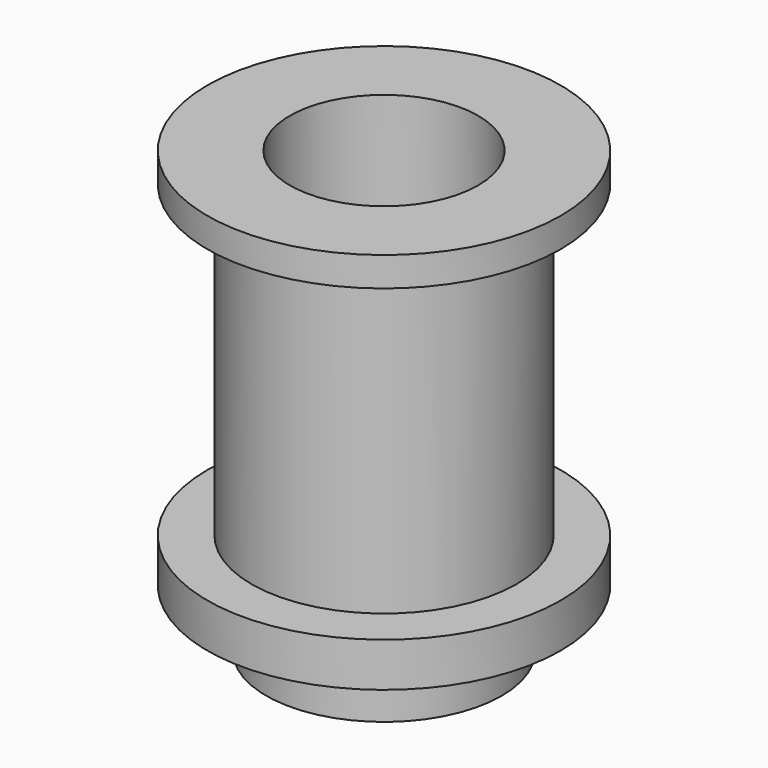
from build123d import *

# Parameters (mm, degrees)
SKETCH003_W     = 1.5
SKETCH003_H     = 10.5
SKETCH_R        = 6
SKETCH_R_2      = 1.6
PAD_DEPTH       = 15
SKETCH001_R     = 3.2
POCKET_DEPTH    = 8
SKETCH002_R     = 6
SKETCH002_R_2   = 4
POCKET001_DEPTH = 2


with BuildPart() as revolution:
    # Sketch003 → Revolution (revolve)
    with BuildSketch(Plane.XZ):
        with Locations((5.25, 8.75)):
            Rectangle(SKETCH003_W, SKETCH003_H)
    revolve(axis=Axis((0, 0, 0), (0, 0, 1)))


with BuildPart() as cut:
    # Sketch → Pad (new body)
    with BuildSketch(Plane.XY):
        Circle(SKETCH_R)
        Circle(SKETCH_R_2, mode=Mode.SUBTRACT)
    extrude(amount=PAD_DEPTH)

    # Sketch001 → Pocket (cut)
    with BuildSketch(Plane.XY.offset(15)):
        Circle(SKETCH001_R)
    extrude(amount=-POCKET_DEPTH, mode=Mode.SUBTRACT)

    # Sketch002 → Pocket001 (cut)
    with BuildSketch(Plane(origin=(0, 0, 0), x_dir=(1, 0, 0), z_dir=(0, 0, -1))):
        Circle(SKETCH002_R)
        Circle(SKETCH002_R_2, mode=Mode.SUBTRACT)
    extrude(amount=-POCKET001_DEPTH, mode=Mode.SUBTRACT)

    # Cut: cut Revolution
    add(revolution.part, mode=Mode.SUBTRACT)


solid = cut.part
